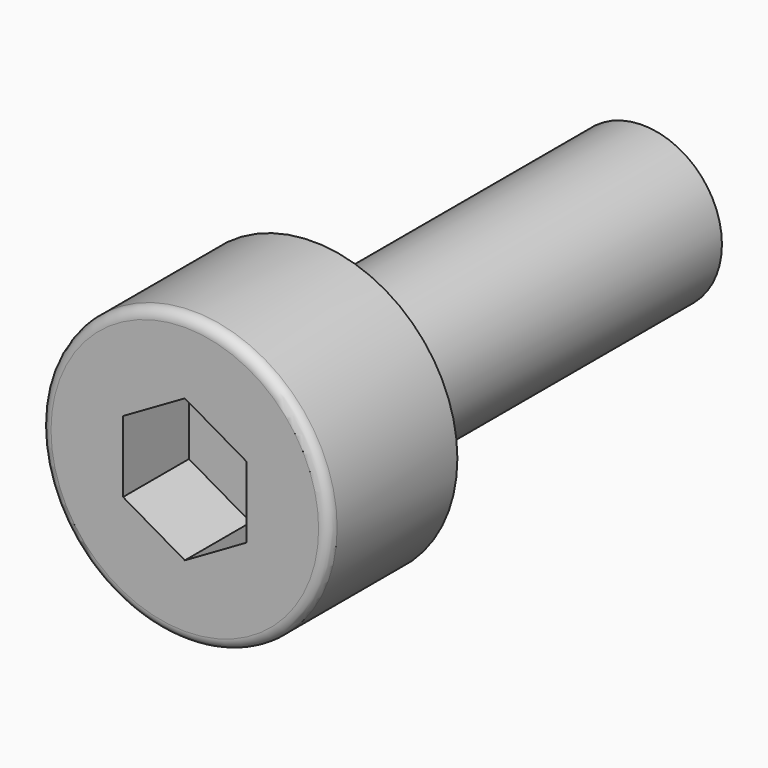
from build123d import *

# Parameters (mm, degrees)
F0_R     = 3.5
F0_R_2   = 1.925
F1_DEPTH = 3.9
F2_DEPTH = 10
F4_DEPTH = 2
F5_R     = 0.25


with BuildPart() as f1:
    # F0 (on Front) → F1 (new body)
    with BuildSketch(Plane.XZ):
        Circle(F0_R)
        Circle(F0_R_2, mode=Mode.SUBTRACT)
        Circle(F0_R_2)
    extrude(amount=F1_DEPTH)

    # F0 (on Front) → F2 (join)
    with BuildSketch(Plane.XZ):
        Circle(F0_R_2)
    extrude(amount=-F2_DEPTH)

    # F3 (on face) → F4 (cut)
    with BuildSketch(Plane.XZ.offset(3.9)):
        Polygon((1.5, -0.8660254038), (1.5, 0.8660254038), (0, 1.7320508076), (-1.5, 0.8660254038), (-1.5, -0.8660254038), (0, -1.7320508076), align=None)
    extrude(amount=-F4_DEPTH, mode=Mode.SUBTRACT)

    # F5
    f5_edges = [f1.edges().sort_by_distance(p)[0] for p in [
        (-3.5, -3.9, 0),
    ]]
    fillet(f5_edges, radius=F5_R)


solid = f1.part
